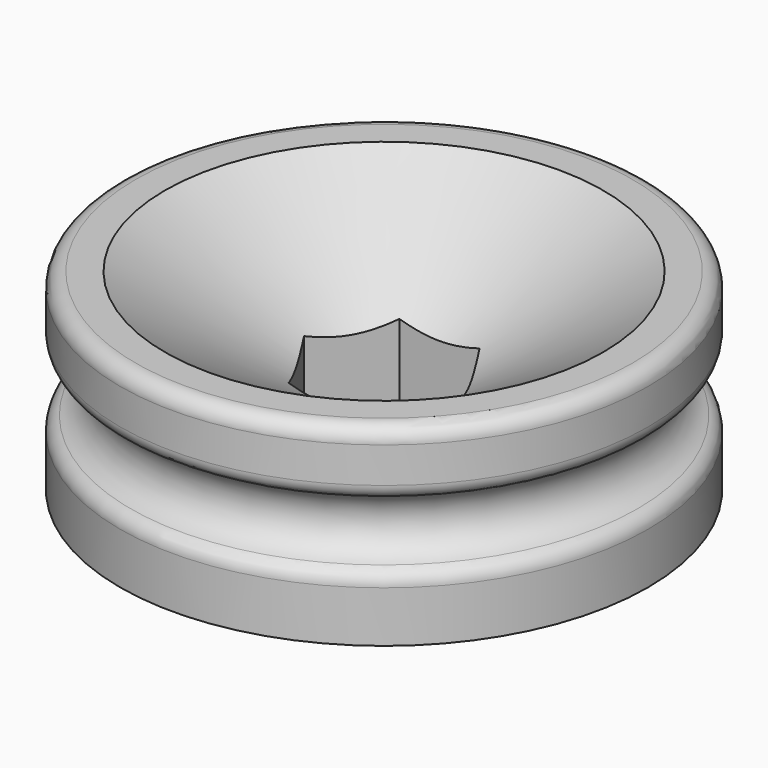
from build123d import *

# Parameters (mm, degrees)
F3_DEPTH = 175.35396


with BuildPart() as f1:
    # F0 (on Front) → F1 (revolve)
    with BuildSketch(Plane.XZ):
        with BuildLine():
            Line((0, 21.537127), (0, 0))
            Line((0, 0), (108.105168, 0))
            Line((108.105168, 0), (108.105168, 20.936103))
            ThreePointArc((108.105168, 20.936103), (106.924834, 24.623521), (103.822632, 26.940109))
            ThreePointArc((103.822632, 26.940109), (94.951811, 39.376777), (103.822632, 51.813444))
            ThreePointArc((103.822632, 51.813444), (106.924834, 54.130032), (108.105168, 57.81745))
            Line((108.105168, 57.81745), (108.105168, 72.403553))
            ThreePointArc((108.105168, 72.403553), (106.245296, 76.893681), (101.755168, 78.753553))
            Line((101.755168, 78.753553), (89.708269, 78.753553))
            Line((89.708269, 78.753553), (3.092389, 26.987858))
            ThreePointArc((3.092389, 26.987858), (0.826942, 24.670549), (0, 21.537127))
        make_face()
    revolve(axis=Axis((0, 0, 17.780939), (0, 0, -1)))

    # F2 (on face) → F3 (cut)
    with BuildSketch(Plane(origin=(0, 0, 0), x_dir=(1, 0, 0), z_dir=(0, 0, -1))):
        Polygon((16.383819, 28.377607), (-16.383819, 28.377607), (-32.767639, 0), (-16.383819, -28.377607), (16.383819, -28.377607), (32.767639, 0), align=None)
    extrude(amount=-F3_DEPTH, mode=Mode.SUBTRACT)


solid = f1.part
